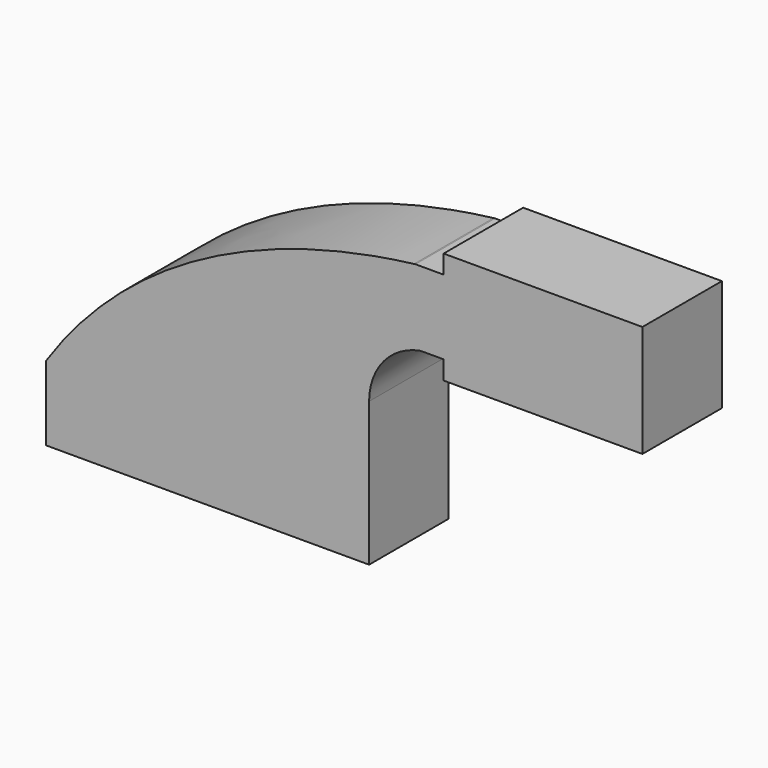
from build123d import *

# Parameters (mm, degrees)
F1_DEPTH = 25.4


with BuildPart() as f1:
    # F0 (on Front) → F1 (new body)
    with BuildSketch(Plane.XZ):
        with BuildLine():
            add(Edge.make_bspline(
                [(-41.275, 9.525), (-19.526121, 41.756507), (15.662241, 57.34362), (52.757816, 61.879481)],
                knots=[0, 0, 0, 0, 107.612327, 107.612327, 107.612327, 107.612327], degree=3))
            Line((-41.275, 9.525), (22.225, 9.525))
            Line((22.225, 9.525), (22.225, 27.231764))
            ThreePointArc((22.225, 27.231764), (30.947399, 50.322439), (52.757816, 61.879481))
        make_face()
        Polygon((22.225, 9.525), (-41.275, 9.525), (-41.275, -9.525), (41.275, -9.525), (41.275, 9.525), align=None)
        with BuildLine():
            Line((22.225, 27.231764), (22.225, 9.525))
            Line((22.225, 9.525), (41.275, 9.525))
            Line((41.275, 9.525), (41.275, 27.231764))
            ThreePointArc((41.275, 27.231764), (45.007035, 37.457419), (54.448422, 42.8752))
            Line((54.448422, 42.8752), (60.325, 42.8752))
            Line((60.325, 42.8752), (60.325, 61.9252))
            Line((60.325, 61.9252), (53.134891, 61.9252))
            add(Edge.make_bspline(
                [(52.757816, 61.879481), (52.883486, 61.894848), (53.009178, 61.910087), (53.134891, 61.9252)],
                knots=[107.612327, 107.612327, 107.612327, 107.612327, 107.976889, 107.976889, 107.976889, 107.976889], degree=3))
            ThreePointArc((52.757816, 61.879481), (30.947399, 50.322439), (22.225, 27.231764))
        make_face()
        with BuildLine():
            ThreePointArc((53.134891, 61.9252), (52.946292, 61.902853), (52.757816, 61.879481))
            add(Edge.make_bspline(
                [(52.757816, 61.879481), (52.883486, 61.894848), (53.009178, 61.910087), (53.134891, 61.9252)],
                knots=[107.612327, 107.612327, 107.612327, 107.612327, 107.976889, 107.976889, 107.976889, 107.976889], degree=3))
        make_face()
        Polygon((60.325, 66.675), (60.325, 61.9252), (60.325, 42.8752), (85.748771, 42.8752), (85.867248, 66.675), align=None)
        Polygon((85.748771, 42.8752), (60.325, 42.8752), (60.325, 38.1), (85.725, 38.1), align=None)
        Polygon((85.867248, 66.675), (85.748771, 42.8752), (85.725, 38.1), (111.125, 38.1), (111.125, 66.675), align=None)
    extrude(amount=F1_DEPTH)


solid = f1.part
